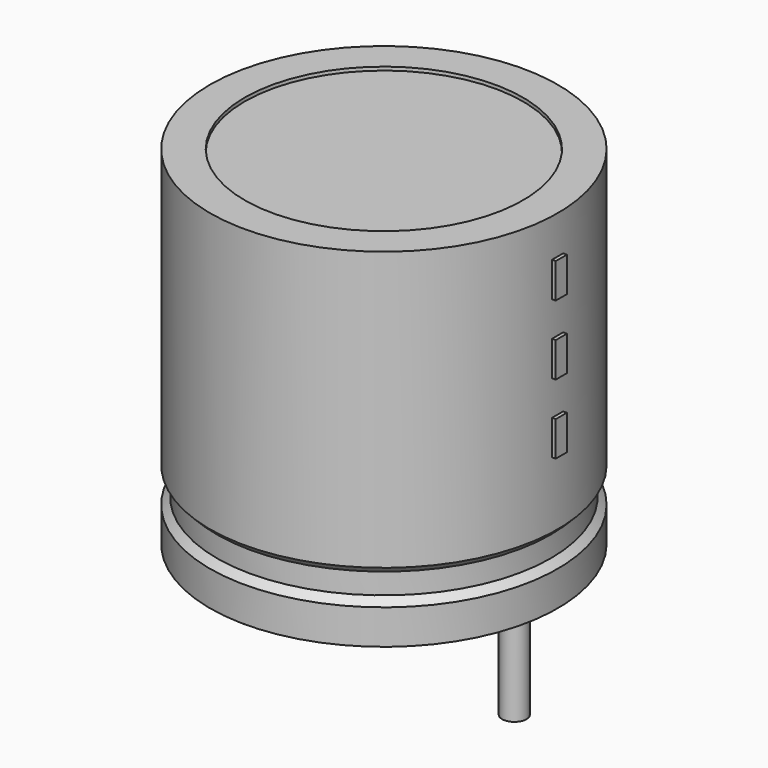
from build123d import *

# Parameters (mm, degrees)
SKETCH002_W  = 4.6
SKETCH002_H  = 9.8
SKETCH003_R  = 0.35
PAD_DEPTH    = 4
SKETCH004_W  = 0.4
SKETCH004_H  = 1
PAD001_DEPTH = 5.1


with BuildPart() as revolution:
    # Sketch → Revolution (revolve)
    with BuildSketch(Plane.XZ):
        Polygon((-1.25, 0.1), (-1.25, 1.1), (-1.05, 1.3), (-1.05, 1.9), (-1.25, 2.1), (-1.25, 10.1), (-0.25, 10.1), (-0.25, 0.1), align=None)
    revolve(axis=Axis((3.75, 0, 7.548619), (0, 0, -1)))


with BuildPart() as revolution001:
    # Sketch002 → Revolution001 (revolve)
    with BuildSketch(Plane.XZ):
        with Locations((1.45, 5.1)):
            Rectangle(SKETCH002_W, SKETCH002_H)
    revolve(axis=Axis((3.75, 0, 4.680116), (0, 0, -1)))


with BuildPart() as pad:
    # Sketch003 → Pad (new body)
    with BuildSketch(Plane.XY.offset(1)):
        Circle(SKETCH003_R)
        with Locations((7.5, 0)):
            Circle(SKETCH003_R)
    extrude(amount=-PAD_DEPTH)


with BuildPart() as pad001:
    # Sketch004 → Pad001 (new body)
    with BuildSketch(Plane.YZ.offset(3.75)):
        with Locations((0, 4.5)):
            Rectangle(SKETCH004_W, SKETCH004_H)
        with Locations((0, 6.5)):
            Rectangle(SKETCH004_W, SKETCH004_H)
        with Locations((0, 8.5)):
            Rectangle(SKETCH004_W, SKETCH004_H)
    extrude(amount=PAD001_DEPTH)


solid = Compound([revolution.part, revolution001.part, pad.part, pad001.part])
